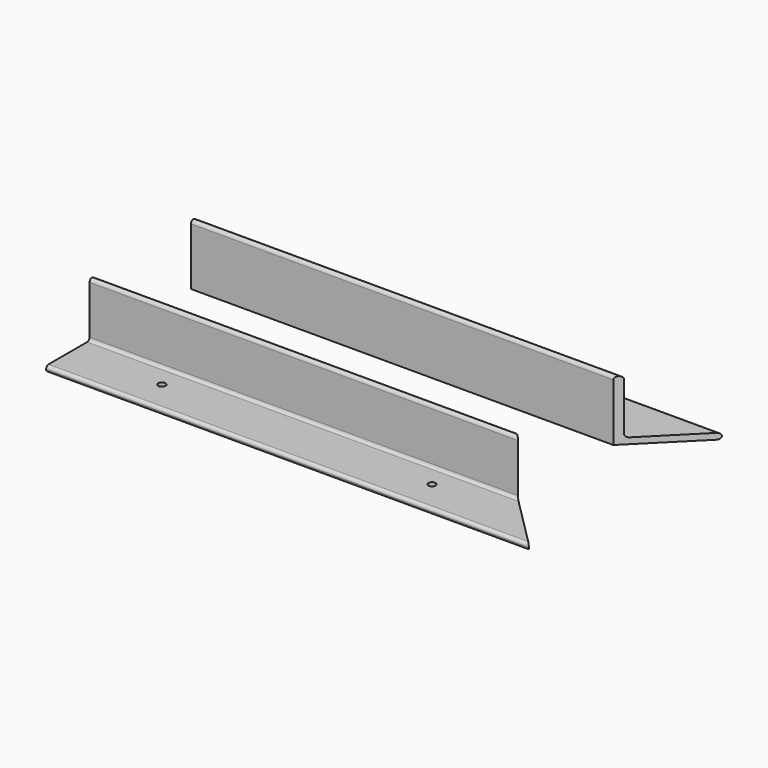
from build123d import *

# Parameters (mm, degrees)
F1_DEPTH = 400
F3_DEPTH = 100.001
F6_R     = 6
F7_DEPTH = 100.001
F9_DEPTH = 100.001


with BuildPart() as f1:
    # F0 (on Right) → F1 (new body, symmetric)
    with BuildSketch(Plane.YZ):
        with BuildLine():
            ThreePointArc((5, 100), (1.464466, 98.535534), (0, 95))
            Line((0, 95), (0, 0))
            Line((0, 0), (95, 0))
            ThreePointArc((95, 0), (98.535534, 1.464466), (100, 5))
            ThreePointArc((100, 5), (98.535534, 8.535534), (95, 10))
            Line((95, 10), (15, 10))
            ThreePointArc((15, 10), (11.464466, 11.464466), (10, 15))
            Line((10, 15), (10, 95))
            ThreePointArc((10, 95), (8.535534, 98.535534), (5, 100))
        make_face()
    extrude(amount=F1_DEPTH, both=True)

    # F2 (on face) → F3 (cut, through all)
    with BuildSketch(Plane(origin=(0, 0, 0), x_dir=(1, 0, 0), z_dir=(0, 0, -1))):
        Polygon((395, -95), (400, -95), (400, 0), (300, 0), align=None)
        Polygon((395, -95), (400, -100), (400, -95), align=None)
    extrude(amount=-F3_DEPTH, mode=Mode.SUBTRACT)

    # F6 (on face) → F7 (cut, through all)
    with BuildSketch(Plane(origin=(0, 0, 0), x_dir=(1, 0, 0), z_dir=(0, 0, -1))):
        with Locations((-250, -47.5)):
            Circle(F6_R)
        with Locations((197.5, -47.5)):
            Circle(F6_R)
    extrude(amount=-F7_DEPTH, mode=Mode.SUBTRACT)


with BuildPart() as f5_1:
    # F5: instance of F1
    add(f1.part.mirror(Plane.XZ.offset(100)))

    # F8 (on face) → F9 (cut, through all)
    with BuildSketch(Plane(origin=(0, 0, 0), x_dir=(1, 0, 0), z_dir=(0, 0, -1))):
        with BuildLine():
            ThreePointArc((-244, 247.5), (-250, 253.5), (-256, 247.5))
            Line((-256, 247.5), (-250, 247.5))
            Line((-250, 247.5), (-244, 247.5))
        make_face()
        with BuildLine():
            ThreePointArc((203.5, 247.5), (197.5, 253.5), (191.5, 247.5))
            Line((191.5, 247.5), (197.5, 247.5))
            Line((197.5, 247.5), (203.5, 247.5))
        make_face()
        with BuildLine():
            Line((197.5, 247.5), (191.5, 247.5))
            ThreePointArc((191.5, 247.5), (197.5, 241.5), (203.5, 247.5))
            Line((203.5, 247.5), (197.5, 247.5))
        make_face()
        with BuildLine():
            Line((-250, 247.5), (-256, 247.5))
            ThreePointArc((-256, 247.5), (-250, 241.5), (-244, 247.5))
            Line((-244, 247.5), (-250, 247.5))
        make_face()
    extrude(amount=-F9_DEPTH, mode=Mode.SUBTRACT)


solid = Compound([f1.part, f5_1.part])
